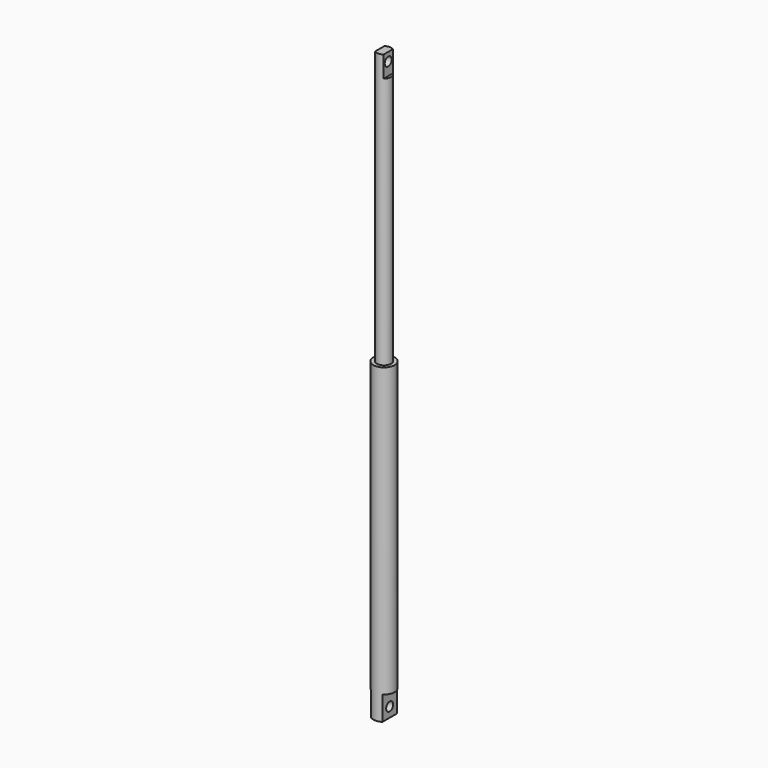
from build123d import *

# Parameters (mm, degrees)
F2_W      = 10.873154
F2_H      = 17
F3_DEPTH  = 12.5
F4_W      = 5
F4_H      = 200
F6_R      = 3.1
F7_DEPTH  = 11.501
F9_DEPTH  = 12.5
F10_R     = 3.1
F11_DEPTH = 10.501


with BuildPart() as f1:
    # F0 (on Front) → F1 (revolve)
    with BuildSketch(Plane.XZ):
        Polygon((-7.5, 0), (0, 0), (0, 20), (-5, 20), (-5, 220), (-7.5, 220), align=None)
    revolve(axis=Axis((0, 0, 213.92663), (0, 0, 1)))

    # F2 (on Front) → F3 (cut, symmetric)
    with BuildSketch(Plane.XZ):
        with Locations((-9.436577, 8.5)):
            Rectangle(F2_W, F2_H)
        with Locations((9.436577, 8.5)):
            Rectangle(F2_W, F2_H)
    extrude(amount=F3_DEPTH, both=True, mode=Mode.SUBTRACT)

    # F6 (on face) → F7 (cut, through all)
    with BuildSketch(Plane.YZ.offset(4)):
        with Locations((0, 7)):
            Circle(F6_R)
    extrude(amount=-F7_DEPTH, mode=Mode.SUBTRACT)


with BuildPart() as f5:
    # F4 (on Front) → F5 (revolve)
    with BuildSketch(Plane.XZ):
        with Locations((-2.5, 312.926278)):
            Rectangle(F4_W, F4_H)
    revolve(axis=Axis((0, 0, 213.92663), (0, 0, 1)))

    # F8 (on Front) → F9 (cut, symmetric)
    with BuildSketch(Plane.XZ):
        Polygon((-3, 412.970006), (-9.712847, 412.926278), (-9.712847, 397.926278), (-3, 397.926278), align=None)
        Polygon((3, 412.970006), (3, 397.926278), (9.712847, 397.926278), (9.712847, 412.926278), align=None)
    extrude(amount=F9_DEPTH, both=True, mode=Mode.SUBTRACT)

    # F10 (on face) → F11 (cut, through all)
    with BuildSketch(Plane.YZ.offset(3)):
        with Locations((0, 406.926278)):
            Circle(F10_R)
    extrude(amount=-F11_DEPTH, mode=Mode.SUBTRACT)


solid = Compound([f1.part, f5.part])
